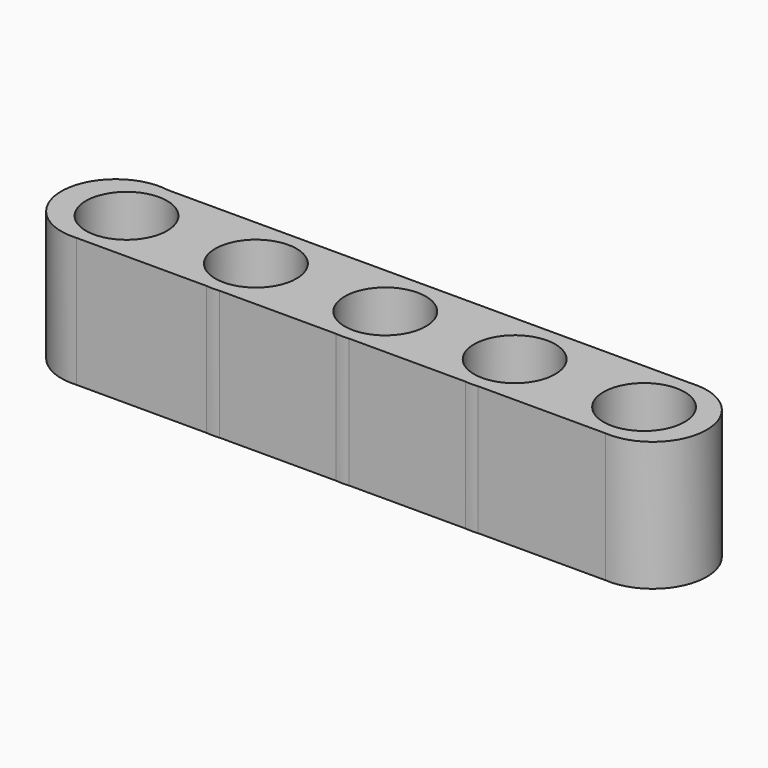
from build123d import *

# Parameters (mm, degrees)
F0_R     = 2.5093381746
F1_DEPTH = 8.0000094


with BuildPart() as f1:
    # F0 (on Top) → F1 (new body)
    with BuildSketch(Plane.XY):
        with BuildLine():
            Line((6.4822530958, -2.4902481259), (14.3532814922, -2.4902481259))
            ThreePointArc((14.3532814922, -2.4902481259), (17.9459084157, 0.8610448497), (14.3155401794, 4.1714163226))
            Line((14.3155401794, 4.1714163226), (-18.027754119, 4.1714163226))
            ThreePointArc((-18.027754119, 4.1714163226), (-21.9708757472, 1.022442996), (-18.3479981245, -2.4902481259))
            Line((-18.3479981245, -2.4902481259), (-10.3046082925, -2.4902481259))
            ThreePointArc((-10.3046082925, -2.4902481259), (-12.1241688453, 3.3106235335), (-6.5786714485, 0.8189631964))
            ThreePointArc((-6.5786714485, 0.8189631964), (-7.4195266613, -1.3940186505), (-9.5177657042, -2.4902481259))
            Line((-9.5177657042, -2.4902481259), (-2.3045988925, -2.4902481259))
            ThreePointArc((-2.3045988925, -2.4902481259), (-4.1241594453, 3.3106235335), (1.4213379515, 0.8189631964))
            ThreePointArc((1.4213379515, 0.8189631964), (0.5804827387, -1.3940186505), (-1.5177563042, -2.4902481259))
            Line((-1.5177563042, -2.4902481259), (5.6954105075, -2.4902481259))
            ThreePointArc((5.6954105075, -2.4902481259), (3.8758499547, 3.3106235335), (9.4213473515, 0.8189631964))
            ThreePointArc((9.4213473515, 0.8189631964), (8.5804921387, -1.3940186505), (6.4822530958, -2.4902481259))
        make_face()
        with Locations((-17.9111963984, 0.8189631964)):
            Circle(F0_R, mode=Mode.SUBTRACT)
        with Locations((14.0888412016, 0.8189631964)):
            Circle(F0_R, mode=Mode.SUBTRACT)
        with BuildLine():
            ThreePointArc((5.6954105075, -2.4902481259), (6.0888318016, -2.5135523535), (6.4822530958, -2.4902481259))
            Line((6.4822530958, -2.4902481259), (5.6954105075, -2.4902481259))
        make_face()
        with BuildLine():
            Line((5.6954105075, -2.4902481259), (6.4822530958, -2.4902481259))
            ThreePointArc((6.4822530958, -2.4902481259), (8.5804921387, -1.3940186505), (9.4213473515, 0.8189631964))
            ThreePointArc((9.4213473515, 0.8189631964), (3.8758499547, 3.3106235335), (5.6954105075, -2.4902481259))
        make_face()
        with Locations((6.0888318016, 0.8189631964)):
            Circle(F0_R, mode=Mode.SUBTRACT)
        with BuildLine():
            ThreePointArc((-2.3045988925, -2.4902481259), (-1.9111775984, -2.5135523535), (-1.5177563042, -2.4902481259))
            Line((-1.5177563042, -2.4902481259), (-2.3045988925, -2.4902481259))
        make_face()
        with BuildLine():
            Line((-2.3045988925, -2.4902481259), (-1.5177563042, -2.4902481259))
            ThreePointArc((-1.5177563042, -2.4902481259), (0.5804827387, -1.3940186505), (1.4213379515, 0.8189631964))
            ThreePointArc((1.4213379515, 0.8189631964), (-4.1241594453, 3.3106235335), (-2.3045988925, -2.4902481259))
        make_face()
        with Locations((-1.9111775984, 0.8189631964)):
            Circle(F0_R, mode=Mode.SUBTRACT)
        with BuildLine():
            ThreePointArc((-6.5786714485, 0.8189631964), (-12.1241688453, 3.3106235335), (-10.3046082925, -2.4902481259))
            Line((-10.3046082925, -2.4902481259), (-9.5177657042, -2.4902481259))
            ThreePointArc((-9.5177657042, -2.4902481259), (-7.4195266613, -1.3940186505), (-6.5786714485, 0.8189631964))
        make_face()
        with Locations((-9.9111869984, 0.8189631964)):
            Circle(F0_R, mode=Mode.SUBTRACT)
        with BuildLine():
            Line((-9.5177657042, -2.4902481259), (-10.3046082925, -2.4902481259))
            ThreePointArc((-10.3046082925, -2.4902481259), (-9.9111869984, -2.5135523535), (-9.5177657042, -2.4902481259))
        make_face()
    extrude(amount=F1_DEPTH)


solid = f1.part
